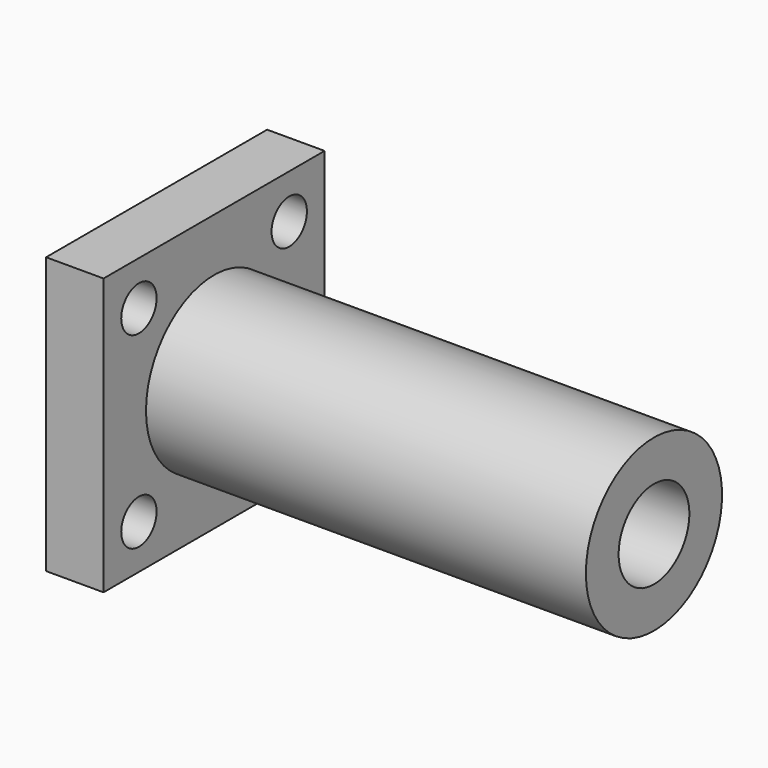
from build123d import *

# Parameters (mm, degrees)
CYLINDER006_R          = 2
CYLINDER006_DEPTH      = 10
CYLINDER007_R          = 2
CYLINDER007_DEPTH      = 10
CYLINDER052_R          = 2
CYLINDER052_DEPTH      = 10
CYLINDER055_R          = 2
CYLINDER055_DEPTH      = 10
CYLINDER054_R          = 4
CYLINDER054_DEPTH      = 60
CYLINDER053_R          = 7.7
CYLINDER053_DEPTH      = 40
BOX019_W               = 25
BOX019_H               = 25
BOX019_DEPTH           = 5.2
CUT004_ROLL_ANGLE      = -90
CUT004_PLACEMENT_ANGLE = -90


with BuildPart() as cylinder006:
    # Cylinder006 → Cylinder006 (new body)
    with BuildSketch(Plane(origin=(21, 21, -2), x_dir=(1, 0, 0), z_dir=(0, 0, 1))):
        Circle(CYLINDER006_R)
    extrude(amount=CYLINDER006_DEPTH)


with BuildPart() as cylinder007:
    # Cylinder007 → Cylinder007 (new body)
    with BuildSketch(Plane(origin=(21, 4, -2), x_dir=(1, 0, 0), z_dir=(0, 0, 1))):
        Circle(CYLINDER007_R)
    extrude(amount=CYLINDER007_DEPTH)


with BuildPart() as cylinder052:
    # Cylinder052 → Cylinder052 (new body)
    with BuildSketch(Plane(origin=(4, 21, -2), x_dir=(1, 0, 0), z_dir=(0, 0, 1))):
        Circle(CYLINDER052_R)
    extrude(amount=CYLINDER052_DEPTH)


with BuildPart() as cylinder055:
    # Cylinder055 → Cylinder055 (new body)
    with BuildSketch(Plane(origin=(4, 4, -2), x_dir=(1, 0, 0), z_dir=(0, 0, 1))):
        Circle(CYLINDER055_R)
    extrude(amount=CYLINDER055_DEPTH)


with BuildPart() as cylinder054:
    # Cylinder054 → Cylinder054 (new body)
    with BuildSketch(Plane(origin=(12.5, 12.5, -7), x_dir=(1, 0, 0), z_dir=(0, 0, 1))):
        Circle(CYLINDER054_R)
    extrude(amount=CYLINDER054_DEPTH)


with BuildPart() as cylinder053:
    # Cylinder053 → Cylinder053 (new body)
    with BuildSketch(Plane(origin=(12.5, 12.5, 5), x_dir=(1, 0, 0), z_dir=(0, 0, 1))):
        Circle(CYLINDER053_R)
    extrude(amount=CYLINDER053_DEPTH)


with BuildPart() as cut004:
    # Box019 → Box019 (new body)
    with BuildSketch(Plane.XY):
        with Locations((12.5, 12.5)):
            Rectangle(BOX019_W, BOX019_H)
    extrude(amount=BOX019_DEPTH)

    # Fusion022: union Cylinder053
    add(cylinder053.part)

    # Cut: cut Cylinder054
    add(cylinder054.part, mode=Mode.SUBTRACT)

    # Cut001: cut Cylinder055
    add(cylinder055.part, mode=Mode.SUBTRACT)

    # Cut002: cut Cylinder052
    add(cylinder052.part, mode=Mode.SUBTRACT)

    # Cut003: cut Cylinder007
    add(cylinder007.part, mode=Mode.SUBTRACT)

    # Cut004: cut Cylinder006
    add(cylinder006.part, mode=Mode.SUBTRACT)


with BuildPart() as cut004_1:
    # Cut004 roll: moved
    add(cut004.part.rotate(Axis((0, 0, 0), (1, 0, 0)), CUT004_ROLL_ANGLE))


with BuildPart() as cut004_2:
    # Cut004 placement: moved
    add(cut004_1.part.moved(Location((79.5, 19.5, 35.5))).rotate(Axis((79.5, 19.5, 35.5), (0, 0, 1)), CUT004_PLACEMENT_ANGLE))


solid = cut004_2.part
